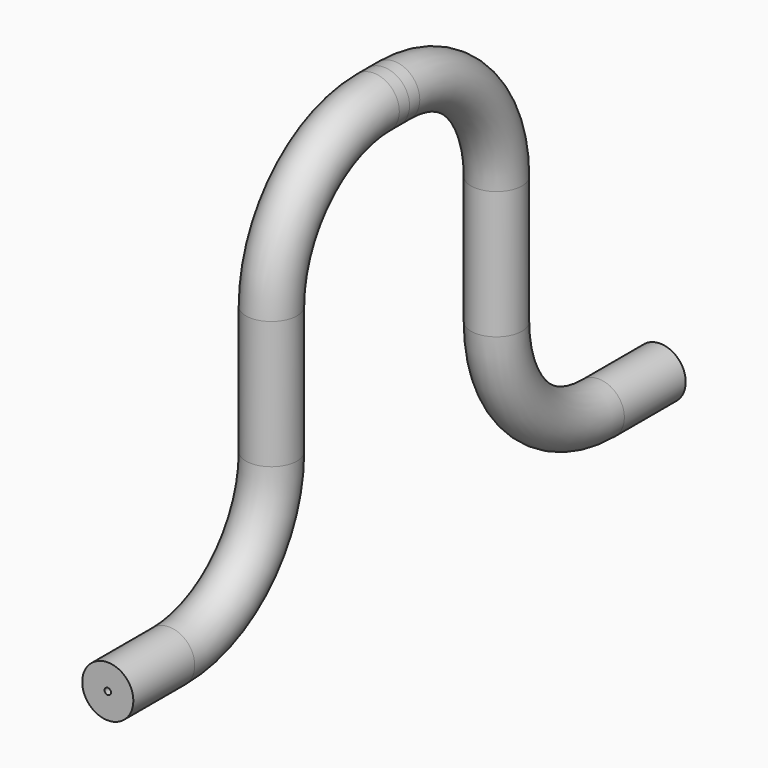
from build123d import *

# Parameters (mm, degrees)
F0_R   = 25.4
F0_R_2 = 3.175


with BuildPart() as f2:
    # F2: sweep along a path in F1
    with BuildLine(Plane.YZ) as f2_path:
        Line((0, 0), (-12.7, 0))
        ThreePointArc((-12.7, 0), (-102.502561, -37.197439), (-139.7, -127))
        Line((-139.7, -127), (-139.7, -254))
        ThreePointArc((-139.7, -254), (-176.897439, -343.802561), (-266.7, -381))
        Line((-266.7, -381), (-342.9, -381))
    # F0 (on Front) → F2 (sweep)
    with BuildSketch(Plane.XZ):
        Circle(F0_R)
        Circle(F0_R_2, mode=Mode.SUBTRACT)
    sweep(path=f2_path.line)

    # F3: F2 across face


with BuildPart() as f2_1:
    add(f2.part)
    add(f2.part.mirror(Plane(origin=(0, 0, 0), x_dir=(-1, 0, 0), z_dir=(0, 1, 0))))


solid = f2_1.part
